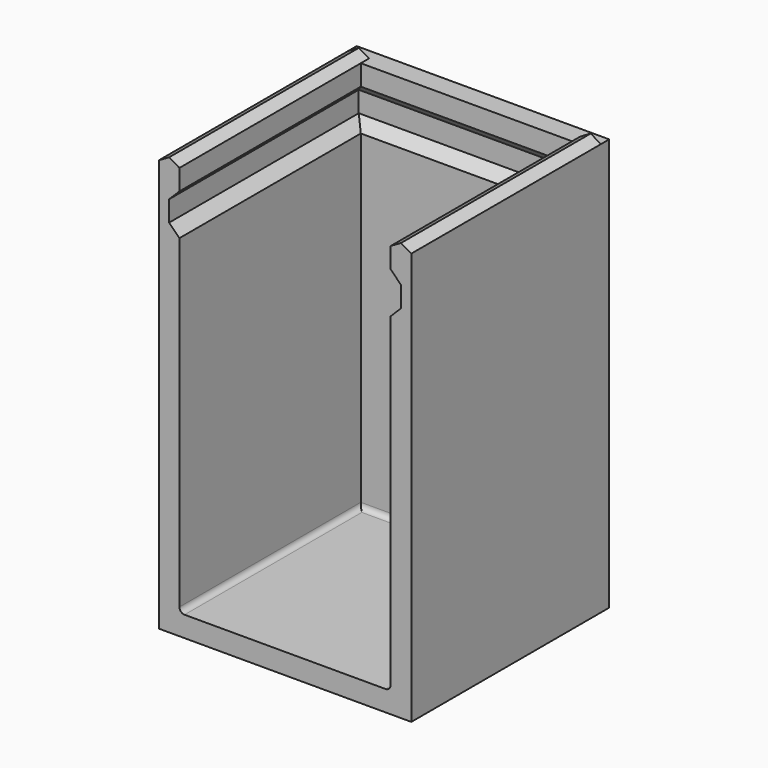
from build123d import *

# Parameters (mm, degrees)
EXTRUDE001_DEPTH = 24.5
EXTRUDE_DEPTH    = 46
FILLET001_R      = 1


with BuildPart() as extrude001:
    # Sketch002 (on Sketch) → Extrude001 (new body, symmetric)
    with BuildSketch(Plane(origin=(0, 0, 0), x_dir=(0, 0, 1), z_dir=(1, 0, 0))):
        Polygon((0, 0), (0, -4), (68, -4), (80, -4), (80, 0), (76, 0), (74, -2), (70, -2), (68, 0), align=None)
    extrude(amount=EXTRUDE001_DEPTH, both=True)


with BuildPart() as bin_holder:
    # Sketch001 → Extrude (new body)
    with BuildSketch(Plane.XZ):
        Polygon((24.5, 0), (-24.5, 0), (-24.5, 80), (-22.5, 81.154701), (-20.5, 80), (-20.5, 76), (-22.5, 74), (-22.5, 70), (-20.5, 68), (-20.5, 4), (20.5, 4), (20.5, 68), (22.5, 70), (22.5, 74), (20.5, 76), (20.5, 80), (22.5, 81.154701), (24.5, 80), align=None)
    extrude(amount=EXTRUDE_DEPTH)


with BuildPart() as bin_holder_1:
    # Extrude placement: moved
    add(bin_holder.part.moved(Location((0, 2, 0))))

    # Fusion: union Extrude001
    add(extrude001.part)

    # Fillet001
    fillet001_edges = [bin_holder_1.edges().sort_by_distance(p)[0] for p in [
        (-20.5, -22, 4),
        (0, 0, 4),
        (20.5, -22, 4),
    ]]
    fillet(fillet001_edges, radius=FILLET001_R)


solid = bin_holder_1.part
